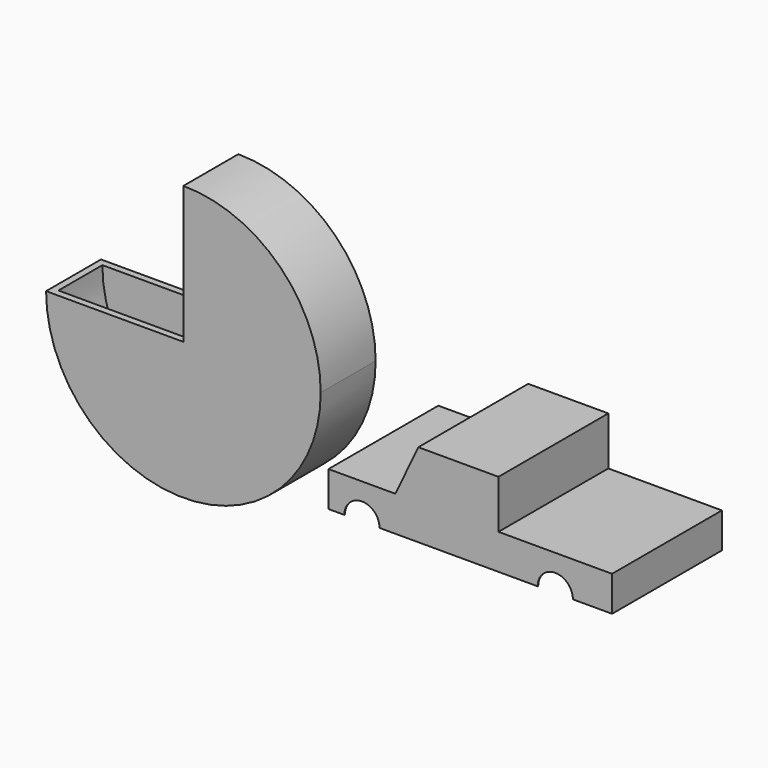
from build123d import *

# Parameters (mm, degrees)
F1_DEPTH = 25.4
F2_T     = -2.54
F4_DEPTH = 25.4
F6_DEPTH = 50.8
F7_T     = -0.254


with BuildPart() as f1:
    # F0 (on Front) → F1 (new body)
    with BuildSketch(Plane.XZ):
        with BuildLine():
            ThreePointArc((0, 0), (11.0120557673, 16.4807061201), (14.8789755157, 35.9210244843))
            ThreePointArc((14.8789755157, 35.9210244843), (-82.8541047359, 55.3613428484), (0, 0))
        make_face()
    extrude(amount=F1_DEPTH)

    # F2 (hollow: no face is removed)
    offset(amount=F2_T, mode=Mode.SUBTRACT)

    # F3 (on face) → F4 (cut)
    with BuildSketch(Plane(origin=(0, 0, 0), x_dir=(-1, 0, 0), z_dir=(0, 1, 0))):
        with BuildLine():
            Line((35.9210244843, 86.7210244843), (35.9210244843, 35.9210244843))
            Line((35.9210244843, 35.9210244843), (86.7210244843, 35.9210244843))
            ThreePointArc((86.7210244843, 35.9210244843), (71.8420489686, 71.8420489686), (35.9210244843, 86.7210244843))
        make_face()
    extrude(amount=-F4_DEPTH, mode=Mode.SUBTRACT)


with BuildPart() as f6:
    # F5 (on Front) → F6 (new body)
    with BuildSketch(Plane.XZ):
        with BuildLine():
            Line((142.9976224899, 15.8503782004), (142.9976224899, 28.8840625435))
            Line((142.9976224899, 28.8840625435), (100.9640023112, 28.8840625435))
            Line((100.9640023112, 28.8840625435), (100.9640023112, 46.8053743243))
            Line((100.9640023112, 46.8053743243), (71.3123679161, 46.8053743243))
            Line((71.3123679161, 46.8053743243), (62.8404766321, 28.8840625435))
            Line((62.8404766321, 28.8840625435), (38.0764789879, 28.8840625435))
            Line((38.0764789879, 28.8840625435), (38.0764789879, 15.8503782004))
            Line((38.0764789879, 15.8503782004), (43.9416356385, 15.8503782004))
            ThreePointArc((43.9416356385, 15.8503782004), (50.45847781, 22.367220372), (56.9753199816, 15.8503782004))
            Line((56.9753199816, 15.8503782004), (62.8404766321, 15.8503782004))
            Line((62.8404766321, 15.8503782004), (100.9640023112, 15.8503782004))
            Line((100.9640023112, 15.8503782004), (115.463970229, 15.8503782004))
            ThreePointArc((115.463970229, 15.8503782004), (121.9808124006, 22.367220372), (128.4976545721, 15.8503782004))
            Line((128.4976545721, 15.8503782004), (142.9976224899, 15.8503782004))
        make_face()
    extrude(amount=F6_DEPTH)

    # F7
    f7_openings = [f6.faces().sort_by_distance(p)[0] for p in [
        (86.219645, -25.4, 15.850378),
        (135.747639, -25.4, 15.850378),
        (121.980812, -25.4, 22.36722),
        (50.458478, -25.4, 22.36722),
        (41.009057, -25.4, 15.850378),
    ]]
    offset(amount=F7_T, openings=f7_openings, kind=Kind.INTERSECTION)


solid = Compound([f1.part, f6.part])
